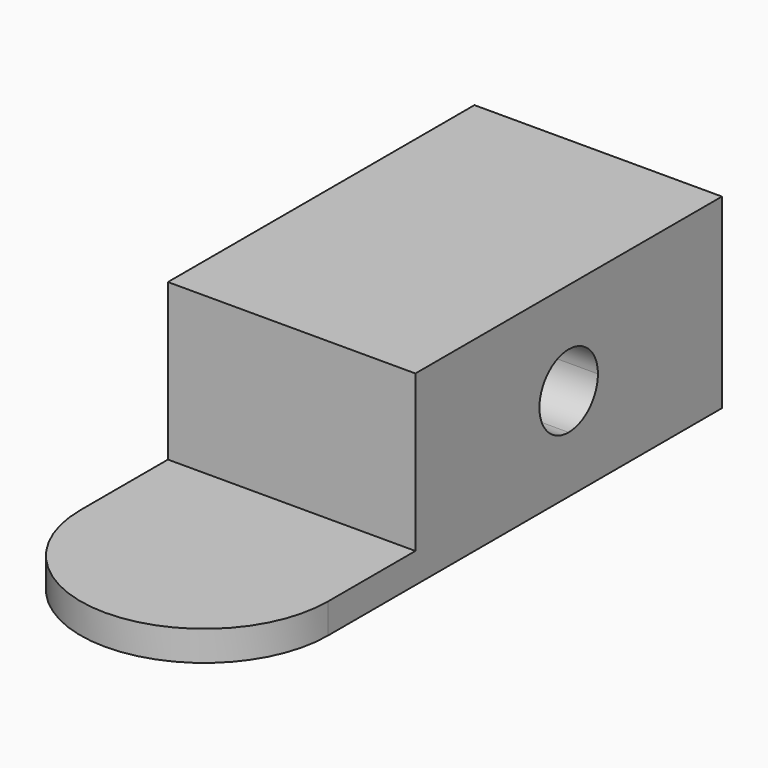
from build123d import *

# Parameters (mm, degrees)
F0_W     = 20.9161378443
F0_H     = 9.225605987
F1_DEPTH = 2.54
F0_H_2   = 32.3809729889
F2_DEPTH = 15.748
F4_DEPTH = 25.4
F5_DEPTH = 1.8034


with BuildPart() as f1:
    # F0 (on Top) → F1 (new body)
    with BuildSketch(Plane.XY):
        with BuildLine():
            ThreePointArc((-10.4580689222, -20.803289488), (0, -31.2613584101), (10.4580689222, -20.803289488))
            Line((10.4580689222, -20.803289488), (-10.4580689222, -20.803289488))
        make_face()
        with Locations((0, -16.1904864945)):
            Rectangle(F0_W, F0_H)
    extrude(amount=F1_DEPTH)

    # F0 (on Top) → F2 (join)
    with BuildSketch(Plane.XY):
        with Locations((0, 4.6128029935)):
            Rectangle(F0_W, F0_H_2)
    extrude(amount=F2_DEPTH)

    # F3 (on face) → F4 (cut)
    with BuildSketch(Plane(origin=(-10.4580689222, 0, 0), x_dir=(0, -1, 0), z_dir=(-1, 0, 0))):
        with BuildLine():
            Line((-4.6128029935, 4.7834570753), (-4.6128029935, 7.874))
            Line((-4.6128029935, 7.874), (-7.7033459182, 7.874))
            ThreePointArc((-7.7033459182, 7.874), (-6.7981468531, 5.6886561404), (-4.6128029935, 4.7834570753))
        make_face()
        with BuildLine():
            Line((-1.5222600688, 7.874), (-4.6128029935, 7.874))
            Line((-4.6128029935, 7.874), (-4.6128029935, 4.7834570753))
            ThreePointArc((-4.6128029935, 4.7834570753), (-2.4274591339, 5.6886561404), (-1.5222600688, 7.874))
        make_face()
        with BuildLine():
            ThreePointArc((-1.5222600688, 7.874), (-2.4274591339, 10.0593438596), (-4.6128029935, 10.9645429247))
            Line((-4.6128029935, 10.9645429247), (-4.6128029935, 7.874))
            Line((-4.6128029935, 7.874), (-1.5222600688, 7.874))
        make_face()
        with BuildLine():
            Line((-4.6128029935, 7.874), (-4.6128029935, 10.9645429247))
            ThreePointArc((-4.6128029935, 10.9645429247), (-6.7981468531, 10.0593438596), (-7.7033459182, 7.874))
            Line((-7.7033459182, 7.874), (-4.6128029935, 7.874))
        make_face()
    extrude(amount=-F4_DEPTH, mode=Mode.SUBTRACT)

    # F3 (on face) → F5 (cut)
    with BuildSketch(Plane(origin=(-10.4580689222, 0, 0), x_dir=(0, -1, 0), z_dir=(-1, 0, 0))):
        with BuildLine():
            Line((-4.6128029935, 10.9645429247), (-4.6128029935, 13.1498547085))
            ThreePointArc((-4.6128029935, 13.1498547085), (-8.3433956344, 11.6045926409), (-9.888657702, 7.874))
            Line((-9.888657702, 7.874), (-7.7033459182, 7.874))
            ThreePointArc((-7.7033459182, 7.874), (-6.7981468531, 10.0593438596), (-4.6128029935, 10.9645429247))
        make_face()
        with BuildLine():
            ThreePointArc((0.663051715, 7.874), (-0.8822103526, 11.6045926409), (-4.6128029935, 13.1498547085))
            Line((-4.6128029935, 13.1498547085), (-4.6128029935, 10.9645429247))
            ThreePointArc((-4.6128029935, 10.9645429247), (-2.4274591339, 10.0593438596), (-1.5222600688, 7.874))
            Line((-1.5222600688, 7.874), (0.663051715, 7.874))
        make_face()
        with BuildLine():
            ThreePointArc((-4.6128029935, 2.5981452915), (-0.8822103526, 4.1434073591), (0.663051715, 7.874))
            Line((0.663051715, 7.874), (-1.5222600688, 7.874))
            ThreePointArc((-1.5222600688, 7.874), (-2.4274591339, 5.6886561404), (-4.6128029935, 4.7834570753))
            Line((-4.6128029935, 4.7834570753), (-4.6128029935, 2.5981452915))
        make_face()
        with BuildLine():
            Line((-7.7033459182, 7.874), (-9.888657702, 7.874))
            ThreePointArc((-9.888657702, 7.874), (-8.3433956344, 4.1434073591), (-4.6128029935, 2.5981452915))
            Line((-4.6128029935, 2.5981452915), (-4.6128029935, 4.7834570753))
            ThreePointArc((-4.6128029935, 4.7834570753), (-6.7981468531, 5.6886561404), (-7.7033459182, 7.874))
        make_face()
    extrude(amount=-F5_DEPTH, mode=Mode.SUBTRACT)


solid = f1.part
